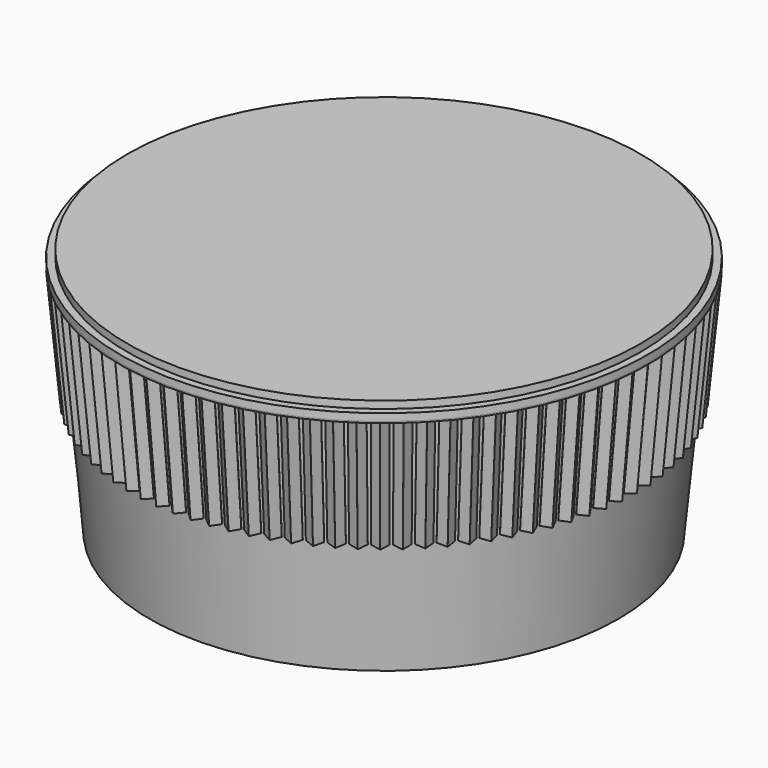
from build123d import *

# Parameters (mm, degrees)
SKETCH001_W        = 1
SKETCH001_H        = 8
PAD_DEPTH          = 0.5
POLARPATTERN_COUNT = 90
CHAMFER_SIZE       = 0.499
SKETCH002_R        = 17.991268
PAD001_DEPTH       = 0.1
SKETCH003_R        = 17.991268
PAD002_DEPTH       = 0.5
SKETCH004_R        = 17.5
PAD003_DEPTH       = 0.5


with BuildPart() as part:
    # Sketch → Revolution (revolve)
    with BuildSketch(Plane.XZ):
        Polygon((7.75, 0), (16, 0), (17.5, 16), (0, 16), (0, 1), (7.75, 1), align=None)
    revolve(axis=Axis((0, 0, 0), (0, 0, 1)))

    # Sketch001 (on DatumPlane) → Pad (new body, symmetric)
    with BuildSketch(Plane(origin=(16, 0, 0), x_dir=(0, -1, 0), z_dir=(0.995634, 0, -0.093341))):
        with Locations((0, -12)):
            Rectangle(SKETCH001_W, SKETCH001_H)
    pad = extrude(amount=PAD_DEPTH, both=True)

    # PolarPattern: Pad ×90 about axis
    polarpattern_axis = Axis((0, 0, 0), (0, 0, 1))
    for i in range(1, POLARPATTERN_COUNT):
        add(pad.rotate(polarpattern_axis, i * 360 / POLARPATTERN_COUNT))

    # Chamfer
    chamfer_edges = [part.edges().sort_by_distance(p)[0] for p in [
        (17.617906, -0.5, 11.90094),
        (17.617906, 0.5, 11.90094),
        (17.609868, 0.730181, 11.90094),
        (17.540111, 1.727745, 11.90094),
        (17.516036, 1.956805, 11.90094),
        (17.376863, 2.947073, 11.90094),
        (17.336868, 3.173895, 11.90094),
        (17.128956, 4.152042, 11.90094),
        (17.073237, 4.375522, 11.90094),
        (16.797599, 5.336784, 11.90094),
        (16.726426, 5.555832, 11.90094),
        (16.384406, 6.495525, 11.90094),
        (16.298126, 6.709075, 11.90094),
        (15.891389, 7.622621, 11.90094),
        (15.790423, 7.829632, 11.90094),
        (15.320952, 8.712579, 11.90094),
        (15.205791, 8.912044, 11.90094),
        (14.675872, 9.760092, 11.90094),
        (14.547078, 9.951037, 11.90094),
        (13.959292, 10.760054, 11.90094),
        (13.817493, 10.941549, 11.90094),
        (13.174705, 11.707594, 11.90094),
        (13.02059, 11.878756, 11.90094),
        (12.325932, 12.598096, 11.90094),
        (12.160252, 12.75809, 11.90094),
        (11.417107, 13.427221, 11.90094),
        (11.240671, 13.575268, 11.90094),
        (10.45266, 14.19093, 11.90094),
        (10.266327, 14.326309, 11.90094),
        (9.437289, 14.885502, 11.90094),
        (9.241966, 15.007554, 11.90094),
        (8.37594, 15.507554, 11.90094),
        (8.172579, 15.615683, 11.90094),
        (7.273784, 16.054054, 11.90094),
        (7.063376, 16.147734, 11.90094),
        (6.136192, 16.522341, 11.90094),
        (5.91976, 16.601115, 11.90094),
        (4.747305, 16.973618, 11.90094),
        (4.968704, 16.910132, 11.90094),
        (3.777009, 17.215539, 11.90094),
        (3.551721, 17.263426, 11.90094),
        (2.566913, 17.437074, 11.90094),
        (2.338834, 17.469129, 11.90094),
        (1.114551, 17.589724, 11.90094),
        (1.344312, 17.573657, 11.90094),
        (0.115161, 17.624623, 11.90094),
        (-0.115161, 17.624623, 11.90094),
        (-1.114551, 17.589724, 11.90094),
        (-1.344312, 17.573657, 11.90094),
        (-2.338834, 17.469129, 11.90094),
        (-2.566913, 17.437074, 11.90094),
        (-3.551721, 17.263426, 11.90094),
        (-3.777009, 17.215539, 11.90094),
        (-4.747305, 16.973618, 11.90094),
        (-4.968704, 16.910132, 11.90094),
        (-5.91976, 16.601115, 11.90094),
        (-6.136192, 16.522341, 11.90094),
        (-7.063376, 16.147734, 11.90094),
        (-7.273784, 16.054054, 11.90094),
        (-8.172579, 15.615683, 11.90094),
        (-8.37594, 15.507554, 11.90094),
        (-9.241966, 15.007554, 11.90094),
        (-9.437289, 14.885502, 11.90094),
        (-10.266327, 14.326309, 11.90094),
        (-10.45266, 14.19093, 11.90094),
        (-11.240671, 13.575268, 11.90094),
        (-11.417107, 13.427221, 11.90094),
        (-12.160252, 12.75809, 11.90094),
        (-12.325932, 12.598096, 11.90094),
        (-13.02059, 11.878756, 11.90094),
        (-13.174705, 11.707594, 11.90094),
        (-13.817493, 10.941549, 11.90094),
        (-13.959292, 10.760054, 11.90094),
        (-14.547078, 9.951037, 11.90094),
        (-14.675872, 9.760092, 11.90094),
        (-15.205791, 8.912044, 11.90094),
        (-15.320952, 8.712579, 11.90094),
        (-15.790423, 7.829632, 11.90094),
        (-15.891389, 7.622621, 11.90094),
        (-16.298126, 6.709075, 11.90094),
        (-16.384406, 6.495525, 11.90094),
        (-16.726426, 5.555832, 11.90094),
        (-17.073237, 4.375522, 11.90094),
        (-17.128956, 4.152042, 11.90094),
        (-17.336868, 3.173895, 11.90094),
        (-17.376863, 2.947073, 11.90094),
        (-17.516036, 1.956805, 11.90094),
        (-17.540111, 1.727745, 11.90094),
        (-17.609868, 0.730181, 11.90094),
        (-17.617906, 0.5, 11.90094),
        (-17.617906, -0.5, 11.90094),
        (-17.609868, -0.730181, 11.90094),
        (-17.540111, -1.727745, 11.90094),
        (-17.516036, -1.956805, 11.90094),
        (-17.376863, -2.947073, 11.90094),
        (-17.336868, -3.173895, 11.90094),
        (-17.128956, -4.152042, 11.90094),
        (-17.073237, -4.375522, 11.90094),
        (-16.797599, -5.336784, 11.90094),
        (-16.726426, -5.555832, 11.90094),
        (-16.384406, -6.495525, 11.90094),
        (-16.298126, -6.709075, 11.90094),
        (-15.891389, -7.622621, 11.90094),
        (-15.790423, -7.829632, 11.90094),
        (-15.320952, -8.712579, 11.90094),
        (-15.205791, -8.912044, 11.90094),
        (-14.675872, -9.760092, 11.90094),
        (-14.547078, -9.951037, 11.90094),
        (-13.959292, -10.760054, 11.90094),
        (-13.817493, -10.941549, 11.90094),
        (-13.174705, -11.707594, 11.90094),
        (-13.02059, -11.878756, 11.90094),
        (-12.325932, -12.598096, 11.90094),
        (-12.160252, -12.75809, 11.90094),
        (-11.417107, -13.427221, 11.90094),
        (-11.240671, -13.575268, 11.90094),
        (-10.45266, -14.19093, 11.90094),
        (-10.266327, -14.326309, 11.90094),
        (-9.437289, -14.885502, 11.90094),
        (-9.241966, -15.007554, 11.90094),
        (-8.37594, -15.507554, 11.90094),
        (-8.172579, -15.615683, 11.90094),
        (-7.273784, -16.054054, 11.90094),
        (-7.063376, -16.147734, 11.90094),
        (-6.136192, -16.522341, 11.90094),
        (-5.91976, -16.601115, 11.90094),
        (-4.968704, -16.910132, 11.90094),
        (-4.747305, -16.973618, 11.90094),
        (-3.777009, -17.215539, 11.90094),
        (-3.551721, -17.263426, 11.90094),
        (-2.566913, -17.437074, 11.90094),
        (-2.338834, -17.469129, 11.90094),
        (-1.344312, -17.573657, 11.90094),
        (-1.114551, -17.589724, 11.90094),
        (-0.115161, -17.624623, 11.90094),
        (0.115161, -17.624623, 11.90094),
        (1.114551, -17.589724, 11.90094),
        (1.344312, -17.573657, 11.90094),
        (2.338834, -17.469129, 11.90094),
        (2.566913, -17.437074, 11.90094),
        (3.551721, -17.263426, 11.90094),
        (3.777009, -17.215539, 11.90094),
        (4.747305, -16.973618, 11.90094),
        (4.968704, -16.910132, 11.90094),
        (5.91976, -16.601115, 11.90094),
        (6.136192, -16.522341, 11.90094),
        (7.063376, -16.147734, 11.90094),
        (7.273784, -16.054054, 11.90094),
        (8.172579, -15.615683, 11.90094),
        (8.37594, -15.507554, 11.90094),
        (9.241966, -15.007554, 11.90094),
        (9.437289, -14.885502, 11.90094),
        (10.266327, -14.326309, 11.90094),
        (10.45266, -14.19093, 11.90094),
        (11.240671, -13.575268, 11.90094),
        (11.417107, -13.427221, 11.90094),
        (12.325932, -12.598096, 11.90094),
        (12.160252, -12.75809, 11.90094),
        (13.02059, -11.878756, 11.90094),
        (13.174705, -11.707594, 11.90094),
        (13.817493, -10.941549, 11.90094),
        (13.959292, -10.760054, 11.90094),
        (14.547078, -9.951037, 11.90094),
        (14.675872, -9.760092, 11.90094),
        (15.205791, -8.912044, 11.90094),
        (15.320952, -8.712579, 11.90094),
        (15.790423, -7.829632, 11.90094),
        (15.891389, -7.622621, 11.90094),
        (16.298126, -6.709075, 11.90094),
        (16.384406, -6.495525, 11.90094),
        (16.726426, -5.555832, 11.90094),
        (16.797599, -5.336784, 11.90094),
        (17.073237, -4.375522, 11.90094),
        (17.128956, -4.152042, 11.90094),
        (17.336868, -3.173895, 11.90094),
        (17.376863, -2.947073, 11.90094),
        (17.516036, -1.956805, 11.90094),
        (17.540111, -1.727745, 11.90094),
        (17.609868, -0.730181, 11.90094),
    ]]
    chamfer(chamfer_edges, length=CHAMFER_SIZE)

    # Sketch002 (on Face10 of Chamfer) → Pad001 (join)
    with BuildSketch(Plane(origin=(0, 0, 16), x_dir=(-1, 0, 0), z_dir=(0, 0, 1))):
        Circle(SKETCH002_R)
    extrude(amount=-PAD001_DEPTH)

    # Sketch003 (on Face637 of Pad001) → Pad002 (join)
    with BuildSketch(Plane(origin=(0, 0, 16), x_dir=(-1, 0, 0), z_dir=(0, 0, 1))):
        Circle(SKETCH003_R)
    extrude(amount=PAD002_DEPTH)

    # Sketch004 (on Face637 of Pad002) → Pad003 (join)
    with BuildSketch(Plane(origin=(0, 0, 16.5), x_dir=(-1, 0, 0), z_dir=(0, 0, 1))):
        Circle(SKETCH004_R)
    extrude(amount=PAD003_DEPTH)


solid = part.part
